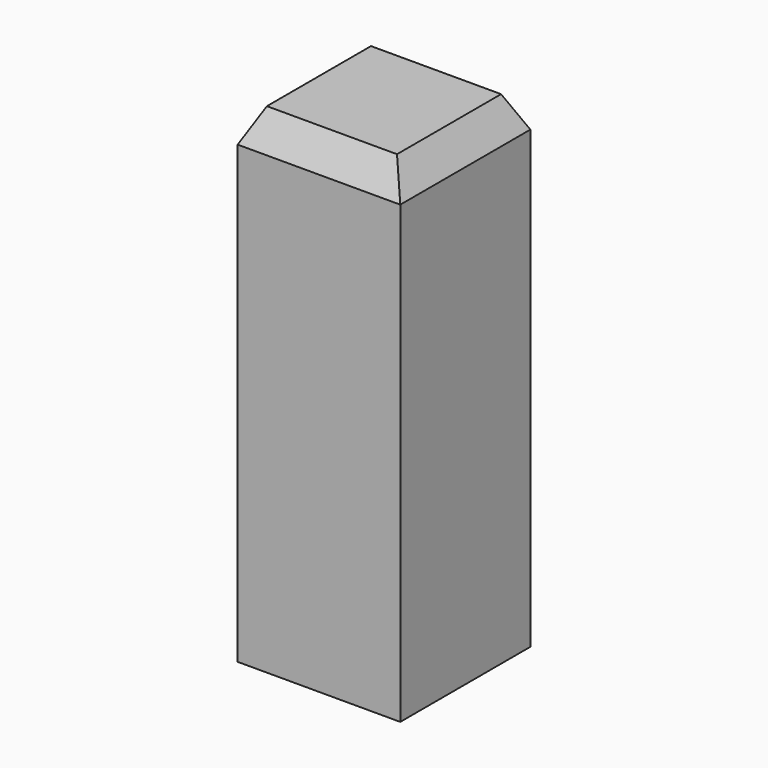
from build123d import *

# Parameters (mm, degrees)
F0_W     = 25.4
F0_H     = 25.4
F1_DEPTH = 76.2
F2_SIZE2 = 5.08
F2_SIZE  = 2.54


with BuildPart() as f1:
    # F0 (on Top) → F1 (new body)
    with BuildSketch(Plane.XY):
        with Locations((16.2951475147, 12.7)):
            Rectangle(F0_W, F0_H)
    extrude(amount=F1_DEPTH)

    # F2
    f2_edges = [f1.edges().sort_by_distance(p)[0] for p in [
        (28.995148, 12.7, 76.2),
        (16.295148, 0, 76.2),
        (3.595148, 12.7, 76.2),
        (16.295148, 25.4, 76.2),
    ]]
    f2_side = f1.faces().sort_by_distance((16.295148, 12.7, 76.2))[0]
    chamfer(f2_edges, length=F2_SIZE, length2=F2_SIZE2, reference=f2_side)


solid = f1.part
